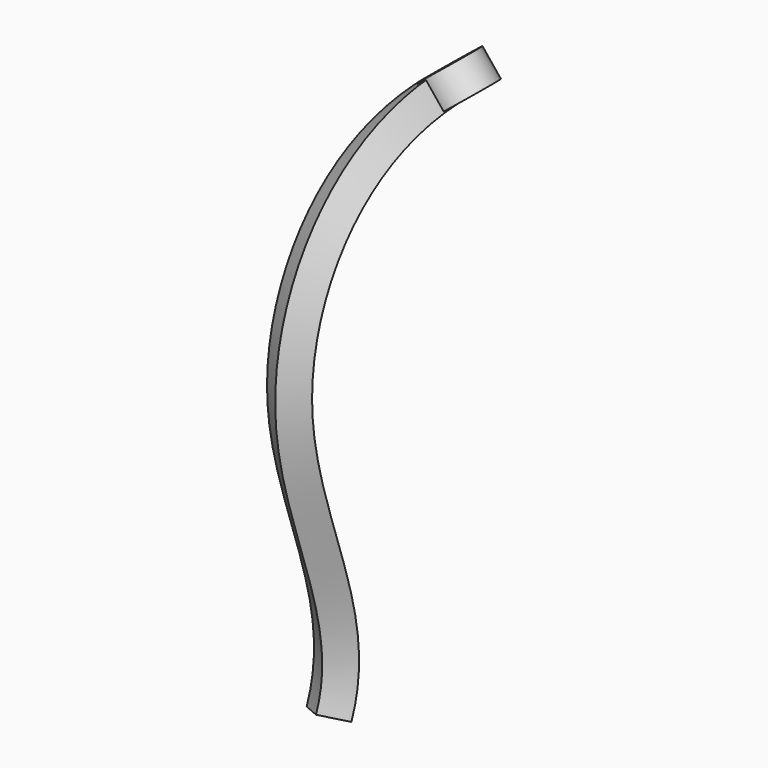
from build123d import *


with BuildPart() as f2:
    # F2: sweep along a path in F0
    with BuildLine(Plane.YZ) as f2_path:
        add(Plane.YZ * Edge.make_bspline(
            [(-15, -50), (-11.2899877131, -41.1478094757), (-27.5546960036, -20.1726213757), (-13.5293249041, 0), (0, 0)],
            knots=[0, 0, 0, 0, 0.5090728796, 1, 1, 1, 1], degree=3))
    # F1 (on Front) → F2 (sweep)
    with BuildSketch(Plane.XZ):
        Polygon((-2.3368271547, 0.263841604), (-0.4555406668, -2.0729855507), (1.8812864878, -0.1916990629), (0, 2.1451280918), align=None)
    sweep(path=f2_path.line)


with BuildPart() as f3:
    # F1 (on Front) → F3 (revolve)
    with BuildSketch(Plane.XZ):
        Polygon((-2.3368271547, 0.263841604), (-0.4555406668, -2.0729855507), (1.8812864878, -0.1916990629), (0, 2.1451280918), align=None)
    revolve(axis=Axis((0.9406432439, 0, 0.9767145145), (-0.6270954959, 0, 0.7789423849)))


solid = Compound([f2.part, f3.part])
